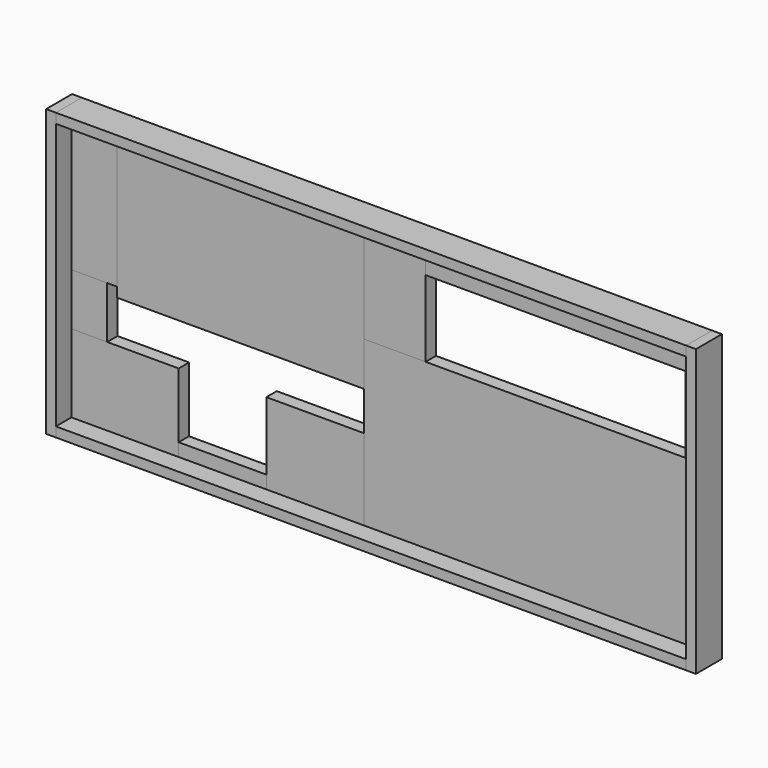
from build123d import *

# Parameters (mm, degrees)
BOX_W        = 3
BOX_H        = 10
BOX_DEPTH    = 88
BOX001_W     = 194
BOX001_H     = 10
BOX001_DEPTH = 3
BOX002_W     = 3
BOX002_H     = 10
BOX002_DEPTH = 88
BOX003_W     = 194
BOX003_H     = 10
BOX003_DEPTH = 3
BOX004_W     = 104
BOX004_H     = 4
BOX004_DEPTH = 50.5
BOX005_W     = 5
BOX005_H     = 4
BOX005_DEPTH = 23.5
BOX006_W     = 85
BOX006_H     = 4
BOX006_DEPTH = 8
BOX007_W     = 19
BOX007_H     = 4
BOX007_DEPTH = 32
BOX009_W     = 76
BOX009_H     = 4
BOX009_DEPTH = 45
BOX010_W     = 30
BOX010_H     = 4
BOX010_DEPTH = 25
BOX011_W     = 27
BOX011_H     = 4
BOX011_DEPTH = 4
BOX012_W     = 33
BOX012_H     = 4
BOX012_DEPTH = 24
BOX013_W     = 14
BOX013_H     = 4
BOX013_DEPTH = 42
BOX014_W     = 11
BOX014_H     = 4
BOX014_DEPTH = 16


with BuildPart() as box:
    # Box → Box (new body)
    with BuildSketch(Plane.XY):
        with Locations((1.5, 5)):
            Rectangle(BOX_W, BOX_H)
    extrude(amount=BOX_DEPTH)


with BuildPart() as box001:
    # Box001 → Box001 (new body)
    with BuildSketch(Plane(origin=(3, 0, 0), x_dir=(1, 0, 0), z_dir=(0, 0, 1))):
        with Locations((97, 5)):
            Rectangle(BOX001_W, BOX001_H)
    extrude(amount=BOX001_DEPTH)


with BuildPart() as box002:
    # Box002 → Box002 (new body)
    with BuildSketch(Plane(origin=(197, 0, 0), x_dir=(1, 0, 0), z_dir=(0, 0, 1))):
        with Locations((1.5, 5)):
            Rectangle(BOX002_W, BOX002_H)
    extrude(amount=BOX002_DEPTH)


with BuildPart() as box003:
    # Box003 → Box003 (new body)
    with BuildSketch(Plane(origin=(3, 0, 85), x_dir=(1, 0, 0), z_dir=(0, 0, 1))):
        with Locations((97, 5)):
            Rectangle(BOX003_W, BOX003_H)
    extrude(amount=BOX003_DEPTH)


with BuildPart() as box004:
    # Box004 → Box004 (new body)
    with BuildSketch(Plane(origin=(93, 6, 3), x_dir=(1, 0, 0), z_dir=(0, 0, 1))):
        with Locations((52, 2)):
            Rectangle(BOX004_W, BOX004_H)
    extrude(amount=BOX004_DEPTH)


with BuildPart() as box005:
    # Box005 → Box005 (new body)
    with BuildSketch(Plane(origin=(192, 6, 53.5), x_dir=(1, 0, 0), z_dir=(0, 0, 1))):
        with Locations((2.5, 2)):
            Rectangle(BOX005_W, BOX005_H)
    extrude(amount=BOX005_DEPTH)


with BuildPart() as box006:
    # Box006 → Box006 (new body)
    with BuildSketch(Plane(origin=(112, 6, 77), x_dir=(1, 0, 0), z_dir=(0, 0, 1))):
        with Locations((42.5, 2)):
            Rectangle(BOX006_W, BOX006_H)
    extrude(amount=BOX006_DEPTH)


with BuildPart() as box007:
    # Box007 → Box007 (new body)
    with BuildSketch(Plane(origin=(93, 6, 53.5), x_dir=(1, 0, 0), z_dir=(0, 0, 1))):
        with Locations((9.5, 2)):
            Rectangle(BOX007_W, BOX007_H)
    extrude(amount=BOX007_DEPTH)


with BuildPart() as box009:
    # Box009 → Box009 (new body)
    with BuildSketch(Plane(origin=(17, 6, 40), x_dir=(1, 0, 0), z_dir=(0, 0, 1))):
        with Locations((38, 2)):
            Rectangle(BOX009_W, BOX009_H)
    extrude(amount=BOX009_DEPTH)


with BuildPart() as box010:
    # Box010 → Box010 (new body)
    with BuildSketch(Plane(origin=(63, 6, 3), x_dir=(1, 0, 0), z_dir=(0, 0, 1))):
        with Locations((15, 2)):
            Rectangle(BOX010_W, BOX010_H)
    extrude(amount=BOX010_DEPTH)


with BuildPart() as box011:
    # Box011 → Box011 (new body)
    with BuildSketch(Plane(origin=(36, 6, 3), x_dir=(1, 0, 0), z_dir=(0, 0, 1))):
        with Locations((13.5, 2)):
            Rectangle(BOX011_W, BOX011_H)
    extrude(amount=BOX011_DEPTH)


with BuildPart() as box012:
    # Box012 → Box012 (new body)
    with BuildSketch(Plane(origin=(3, 6, 3), x_dir=(1, 0, 0), z_dir=(0, 0, 1))):
        with Locations((16.5, 2)):
            Rectangle(BOX012_W, BOX012_H)
    extrude(amount=BOX012_DEPTH)


with BuildPart() as box013:
    # Box013 → Box013 (new body)
    with BuildSketch(Plane(origin=(3, 6, 43), x_dir=(1, 0, 0), z_dir=(0, 0, 1))):
        with Locations((7, 2)):
            Rectangle(BOX013_W, BOX013_H)
    extrude(amount=BOX013_DEPTH)


with BuildPart() as box014:
    # Box014 → Box014 (new body)
    with BuildSketch(Plane(origin=(3, 6, 27), x_dir=(1, 0, 0), z_dir=(0, 0, 1))):
        with Locations((5.5, 2)):
            Rectangle(BOX014_W, BOX014_H)
    extrude(amount=BOX014_DEPTH)


solid = Compound([box.part, box001.part, box002.part, box003.part, box004.part, box005.part, box006.part, box007.part, box009.part, box010.part, box011.part, box012.part, box013.part, box014.part])
